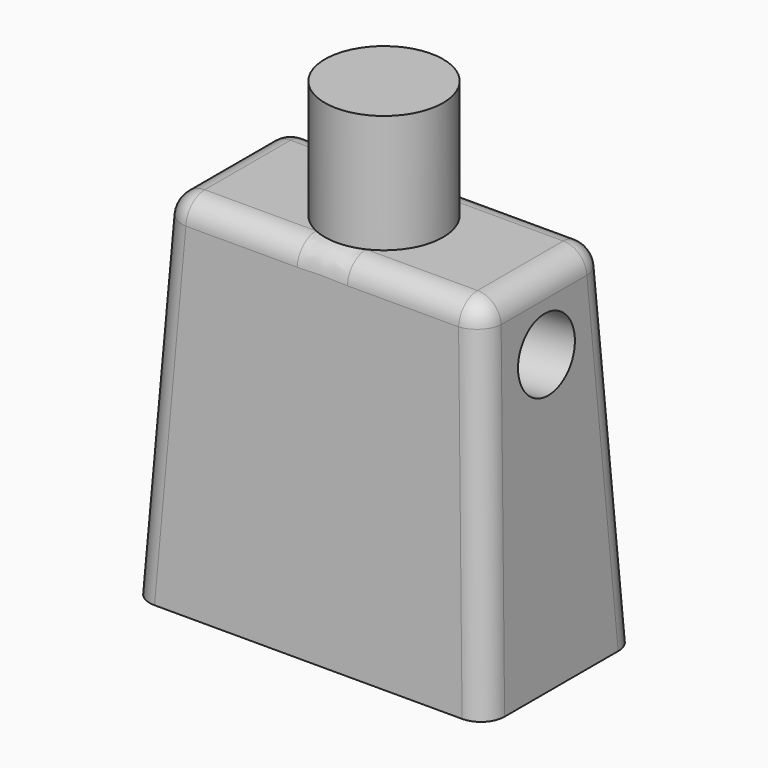
from build123d import *

# Parameters (mm, degrees)
F0_W     = 15
F0_H     = 8
F1_DEPTH = 15
F1_TAPER = 3
F2_R     = 2.5
F3_DEPTH = 5
F4_R     = 1
F5_R     = 1.5
F6_DEPTH = 3
F7_R     = 1.5
F8_DEPTH = 3


with BuildPart() as f1:
    # F0 (on Top) → F1 (new body)
    with BuildSketch(Plane.XY):
        Rectangle(F0_W, F0_H)
    extrude(amount=F1_DEPTH, taper=F1_TAPER)

    # F2 (on face) → F3 (join)
    with BuildSketch(Plane.XY.offset(15)):
        Circle(F2_R)
    extrude(amount=F3_DEPTH)

    # F4
    f4_edges = [f1.edges().sort_by_distance(p)[0] for p in [
        (-7.106942, -3.606942, 7.5),
        (7.106942, -3.606942, 7.5),
        (7.106942, 3.606942, 7.5),
        (6.713883, 0, 15),
        (0, -3.213883, 15),
        (-6.713883, 0, 15),
        (0, 3.213883, 15),
        (-7.106942, 3.606942, 7.5),
    ]]
    fillet(f4_edges, radius=F4_R)

    # F5 (on face) → F6 (cut)
    with BuildSketch(Plane(origin=(-7.4794571076, 0, 0.3919817373), x_dir=(0, -1, 0), z_dir=(-0.9986295348, 0, 0.0523359562))):
        with Locations((0, 11.6777304862)):
            Circle(F5_R)
    extrude(amount=-F6_DEPTH, mode=Mode.SUBTRACT)

    # F7 (on face) → F8 (cut)
    with BuildSketch(Plane(origin=(7.4794571076, 0, 0.3919817373), x_dir=(0, 1, 0), z_dir=(0.9986295348, 0, 0.0523359562))):
        with Locations((0, 11.6777304862)):
            Circle(F7_R)
    extrude(amount=-F8_DEPTH, mode=Mode.SUBTRACT)


solid = f1.part
